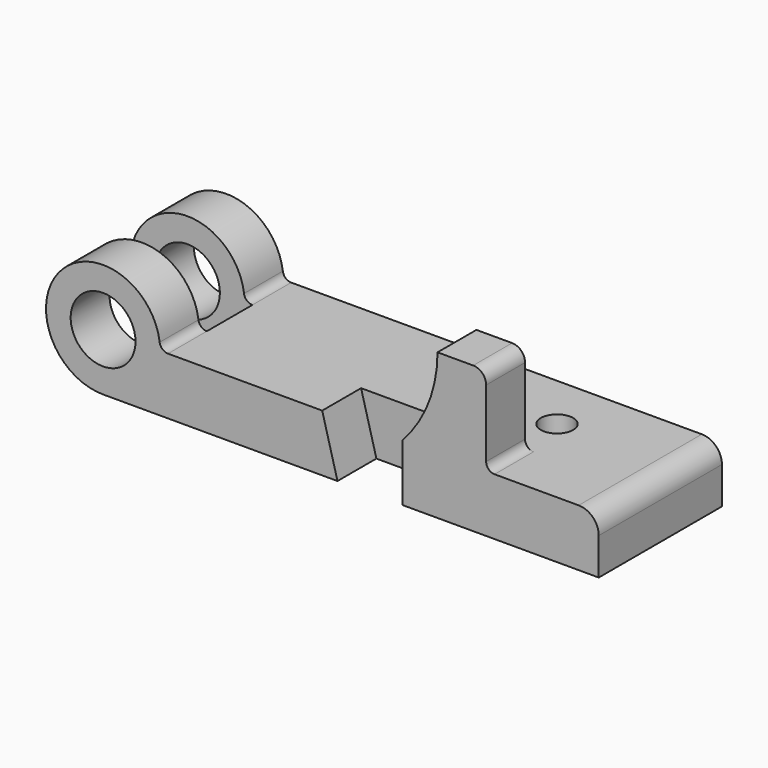
from build123d import *

# Parameters (mm, degrees)
F0_R     = 12.7
F1_DEPTH = 30.1625
F2_DEPTH = 11.1633
F4_DEPTH = 19.05
F5_DEPTH = 19.05
F6_R     = 6.35
F7_DEPTH = 22.353


with BuildPart() as f1:
    # F0 (on Front) → F1 (new body, symmetric)
    with BuildSketch(Plane.XZ):
        with BuildLine():
            ThreePointArc((25.440608, 0), (23.261179, 0.821417), (22.166074, 2.87699))
            ThreePointArc((22.166074, 2.87699), (-16.791641, 14.753058), (0, -22.352))
            Line((0, -22.352), (25.440608, -22.352))
            Line((25.440608, -22.352), (25.440608, 0))
        make_face()
        Circle(F0_R, mode=Mode.SUBTRACT)
        with BuildLine():
            Line((131.0386, 0), (117.2464, 0))
            Line((117.2464, 0), (117.2464, -22.352))
            Line((117.2464, -22.352), (194.2084, -22.352))
            Line((194.2084, -22.352), (194.2084, -7.874))
            ThreePointArc((194.2084, -7.874), (191.902159, -2.306241), (186.3344, 0))
            Line((186.3344, 0), (153.3906, 0))
            Line((153.3906, 0), (131.0386, 0))
        make_face()
        Polygon((117.2464, 0), (85.852, 0), (91.8464, -22.352), (117.2464, -22.352), align=None)
        Polygon((85.852, 0), (25.440608, 0), (25.440608, -22.352), (91.8464, -22.352), align=None)
        Polygon((85.852, 0), (25.440608, 0), (25.440608, -22.352), (91.8464, -22.352), align=None)
    extrude(amount=F1_DEPTH, both=True)

    # F0 (on Front) → F2 (cut, symmetric)
    with BuildSketch(Plane.XZ):
        with BuildLine():
            ThreePointArc((25.440608, 0), (23.261179, 0.821417), (22.166074, 2.87699))
            ThreePointArc((22.166074, 2.87699), (-16.791641, 14.753058), (0, -22.352))
            Line((0, -22.352), (25.440608, -22.352))
            Line((25.440608, -22.352), (25.440608, 0))
        make_face()
        Circle(F0_R, mode=Mode.SUBTRACT)
    extrude(amount=F2_DEPTH, both=True, mode=Mode.SUBTRACT)

    # F3 (on face) → F4 (join)
    with BuildSketch(Plane.XZ.offset(30.1625)):
        Polygon((117.2464, -22.352), (117.2464, 0), (85.852, 0), (91.8464, -22.352), align=None)
        with BuildLine():
            Line((150.0886, 3.302), (150.0886, 29.720327))
            ThreePointArc((150.0886, 29.720327), (148.600702, 33.312429), (145.0086, 34.800327))
            Line((145.0086, 34.800327), (131.0386, 34.800327))
            ThreePointArc((131.0386, 34.800327), (127.464844, 16.083439), (117.2464, 0))
            Line((117.2464, 0), (131.0386, 0))
            Line((131.0386, 0), (153.3906, 0))
            ThreePointArc((153.3906, 0), (151.055733, 0.967133), (150.0886, 3.302))
        make_face()
    extrude(amount=-F4_DEPTH)

    # F3 (on face) → F5 (cut)
    with BuildSketch(Plane.XZ.offset(30.1625)):
        Polygon((117.2464, -22.352), (117.2464, 0), (85.852, 0), (91.8464, -22.352), align=None)
    extrude(amount=-F5_DEPTH, mode=Mode.SUBTRACT)

    # F6 (on face) → F7 (cut, through all)
    with BuildSketch(Plane.XY):
        with Locations((147.4724, 7.8105)):
            Circle(F6_R)
    extrude(amount=-F7_DEPTH, mode=Mode.SUBTRACT)


solid = f1.part
